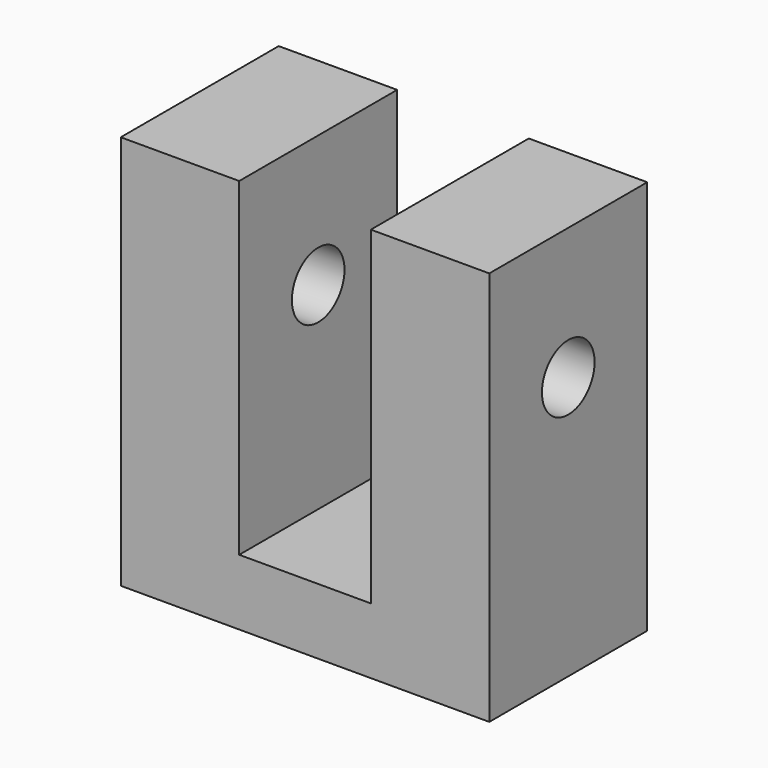
from build123d import *

# Parameters (mm, degrees)
F1_DEPTH      = 0.375
F1_DEPTH_BACK = 0.375
F2_R          = 0.125
F3_DEPTH      = 25
F3_DEPTH_BACK = 25


with BuildPart() as f1:
    # F0 (on Front) → F1 (new body, two sides)
    with BuildSketch(Plane.XZ) as f1_sk:
        Polygon((-0.7, 0), (0, 0), (0.7, 0), (0.7, 1.5), (0.25, 1.5), (0.25, 0.25), (-0.25, 0.25), (-0.25, 1.5), (-0.7, 1.5), align=None)
    extrude(amount=F1_DEPTH)
    extrude(f1_sk.sketch, amount=-F1_DEPTH_BACK)

    # F2 (on Right) → F3 (cut, two sides)
    with BuildSketch(Plane.YZ) as f3_sk:
        with Locations((0, 1)):
            Circle(F2_R)
    extrude(amount=-F3_DEPTH, mode=Mode.SUBTRACT)
    extrude(f3_sk.sketch, amount=F3_DEPTH_BACK, mode=Mode.SUBTRACT)


solid = f1.part
